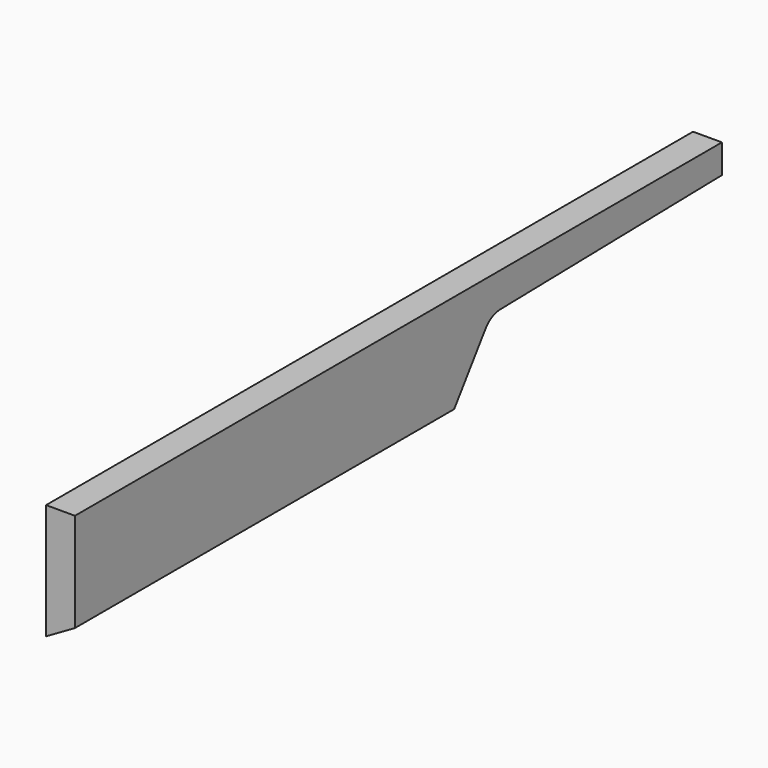
from build123d import *

# Parameters (mm, degrees)
F0_W     = 3.175
F0_H     = 12.7
F1_DEPTH = 44.45
F3_DEPTH = 3.176
F5_DEPTH = 82.55
F6_R     = 2.54


with BuildPart() as f1:
    # F0 (on Front) → F1 (new body, symmetric)
    with BuildSketch(Plane.XZ):
        Rectangle(F0_W, F0_H)
    extrude(amount=F1_DEPTH, both=True)

    # F2 (on face) → F3 (cut, through all)
    with BuildSketch(Plane.YZ.offset(1.5875)):
        Polygon((44.45, -6.35), (44.45, 3.175), (12.7, 2.54), (6.35, -6.35), align=None)
    extrude(amount=-F3_DEPTH, mode=Mode.SUBTRACT)

    # F4 (on face) → F5 (cut)
    with BuildSketch(Plane.XZ.offset(44.45)):
        Polygon((1.5875, -4.516913), (-1.5875, -6.35), (1.5875, -6.35), align=None)
    extrude(amount=-F5_DEPTH, mode=Mode.SUBTRACT)

    # F6
    f6_edges = [f1.edges().sort_by_distance(p)[0] for p in [
        (0, 12.7, 2.54),
    ]]
    fillet(f6_edges, radius=F6_R)


solid = f1.part
